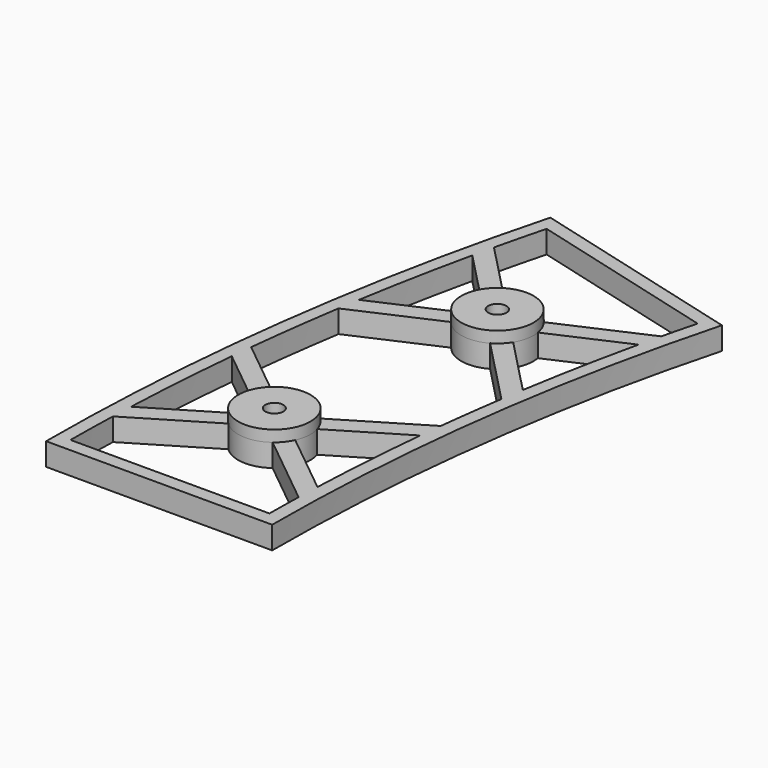
from build123d import *

# Parameters (mm, degrees)
SKETCH_R      = 2
PAD_DEPTH     = 5
SKETCH001_R   = 8
SKETCH001_R_2 = 2.024761308
SKETCH001_R_3 = 8.0000008109
SKETCH001_R_4 = 2.000001045
PAD001_DEPTH  = 2.5


with BuildPart() as part:
    # Sketch → Pad (new body)
    with BuildSketch(Plane.XY):
        with BuildLine():
            ThreePointArc((15.7593053413, 119.7038083599), (3.9567516146, 60.3683639018), (0, 0))
            Line((50, 0), (0, 0))
            ThreePointArc((64.0555966558, 106.7628561048), (53.5289946833, 53.8420542908), (50, 0))
            Line((64.0555966558, 106.7628561048), (15.7593053413, 119.7038083599))
        make_face()
        with Locations((26.0657280113, 30.5184572631)):
            Circle(SKETCH_R, mode=Mode.SUBTRACT)
        with Locations((33.0381072416, 83.4789354772)):
            Circle(SKETCH_R, mode=Mode.SUBTRACT)
        with BuildLine():
            Line((47, 3), (3, 3))
            ThreePointArc((3.2176751035, 14.4566952549), (3.0731243146, 8.7290261724), (3, 3))
            Line((20.4562148001, 24.8146548881), (3.2176751035, 14.4566952549))
            ThreePointArc((20.4562148001, 24.8146548881), (25.5076762214, 22.537944861), (30.8268339618, 24.0894705522))
            Line((30.8268339618, 24.0894705522), (47.1317951682, 10.8859733054))
            ThreePointArc((47.1317951682, 10.8859733054), (47.0471860802, 6.9432993707), (47, 3))
        make_face(mode=Mode.SUBTRACT)
        with BuildLine():
            Line((60.3813620416, 104.6415357612), (17.8806256849, 116.0295737457))
            ThreePointArc((17.8806256849, 116.0295737457), (16.4684772655, 110.4768334411), (15.1256727632, 104.9069174527))
            Line((29.0959862421, 90.4402343521), (15.1256727632, 104.9069174527))
            ThreePointArc((39.3009266424, 88.4565948824), (34.5645792047, 91.3319529448), (29.0959862421, 90.4402343521))
            Line((39.3009266424, 88.4565948824), (58.4676263177, 96.9901593805))
            ThreePointArc((60.3813620416, 104.6415357612), (59.4063393174, 100.820388402), (58.4676263177, 96.9901593805))
        make_face(mode=Mode.SUBTRACT)
        with BuildLine():
            ThreePointArc((18.7873404966, 33.8388601281), (18.0852156092, 31.076509053), (18.3960625004, 28.2433240909))
            Line((18.3960625004, 28.2433240909), (3.3926933694, 19.2283904273))
            ThreePointArc((5.1846193956, 44.8541264837), (4.1095496121, 32.053782821), (3.3926933694, 19.2283904273))
            Line((18.7873404966, 33.8388601281), (5.1846193956, 44.8541264837))
        make_face(mode=Mode.SUBTRACT)
        with BuildLine():
            Line((21.3046220608, 36.9474439739), (5.6753960094, 49.6037416816))
            ThreePointArc((8.4029238656, 70.3213726134), (6.9213768313, 59.9780635876), (5.6753960094, 49.6037416816))
            Line((26.7752878409, 78.5012760721), (8.4029238656, 70.3213726134))
            ThreePointArc((26.7752878409, 78.5012760721), (31.5116352786, 75.6259180097), (36.9802282412, 76.5176366024))
            Line((36.9802282412, 76.5176366024), (51.5545531991, 61.4254813054))
            ThreePointArc((51.5545531991, 61.4254813054), (50.5439225691, 54.2350464901), (49.6590953227, 47.0280493451))
            Line((31.6752412226, 36.222259638), (49.6590953227, 47.0280493451))
            ThreePointArc((31.6752412226, 36.222259638), (26.6237798013, 38.4989696651), (21.3046220608, 36.9474439739))
        make_face(mode=Mode.SUBTRACT)
        with BuildLine():
            Line((33.344115526, 27.198054398), (47.2935739714, 15.9020056772))
            ThreePointArc((49.121202926, 42.0383173978), (48.0013333151, 28.9845703161), (47.2935739714, 15.9020056772))
            Line((33.7353935222, 32.7935904352), (49.121202926, 42.0383173978))
            ThreePointArc((33.344115526, 27.198054398), (34.0462404134, 29.9604054731), (33.7353935222, 32.7935904352))
        make_face(mode=Mode.SUBTRACT)
        with BuildLine():
            Line((39.8575874425, 79.2962700842), (52.3264266993, 66.384409056))
            ThreePointArc((57.3256479332, 92.1031727317), (54.6232740747, 79.2832040754), (52.3264266993, 66.384409056))
            Line((40.9278732147, 84.8024130518), (57.3256479332, 92.1031727317))
            ThreePointArc((39.8575874425, 79.2962700842), (40.8911247092, 81.9524635142), (40.9278732147, 84.8024130518))
        make_face(mode=Mode.SUBTRACT)
        with BuildLine():
            Line((25.1483412686, 82.1554579027), (9.1581609295, 75.0361709325))
            ThreePointArc((14.0597218383, 100.25251579), (11.4326959844, 87.6786019965), (9.1581609295, 75.0361709325))
            Line((26.2186270408, 87.6616008703), (14.0597218383, 100.25251579))
            ThreePointArc((26.2186270408, 87.6616008703), (25.1850897741, 85.0054074403), (25.1483412686, 82.1554579027))
        make_face(mode=Mode.SUBTRACT)
    extrude(amount=PAD_DEPTH)

    # Sketch001 (on Face44 of Pad) → Pad001 (join)
    with BuildSketch(Plane.XY.offset(5)):
        with Locations((33.0381072416, 83.4789354772)):
            Circle(SKETCH001_R)
        with Locations((33.04052, 83.454292)):
            Circle(SKETCH001_R_2, mode=Mode.SUBTRACT)
        with Locations((26.065727, 30.518457)):
            Circle(SKETCH001_R_3)
        with Locations((26.065727, 30.518457)):
            Circle(SKETCH001_R_4, mode=Mode.SUBTRACT)
    extrude(amount=PAD001_DEPTH)


solid = part.part
